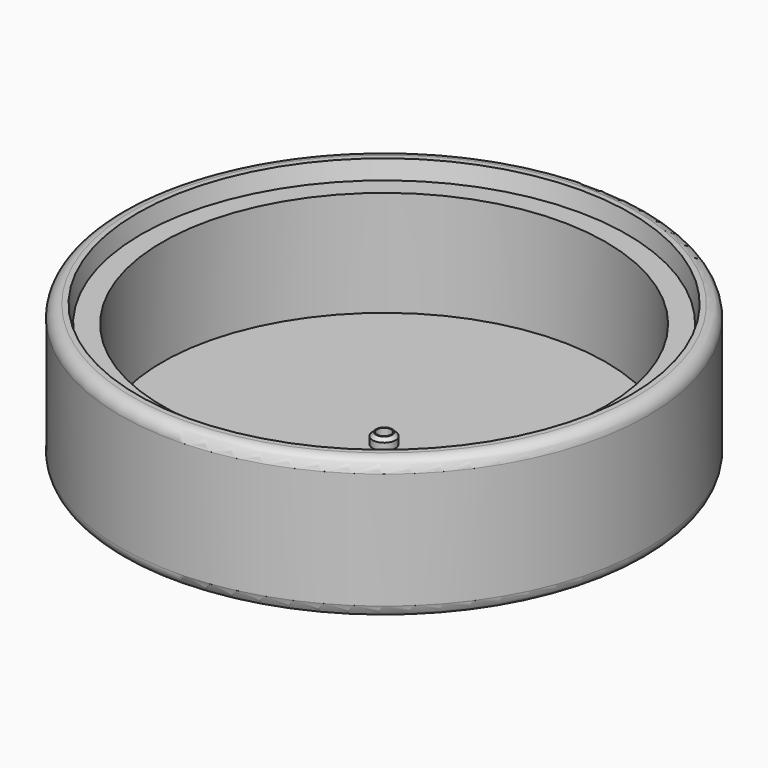
from build123d import *

# Parameters (mm, degrees)
CYLINDER006_R     = 14
CYLINDER006_DEPTH = 1
CYLINDER005_R     = 0.4
CYLINDER005_DEPTH = 1
CYLINDER001_R     = 12.6
CYLINDER001_DEPTH = 8
CYLINDER_R        = 15
CYLINDER_DEPTH    = 8
CYLINDER002_R     = 15
CYLINDER002_DEPTH = 1
FILLET_R          = 0.7
FILLET001_R       = 0.7
FILLET002_R       = 0.8
CYLINDER004_R     = 0.4
CYLINDER004_DEPTH = 0.6
CYLINDER003_R     = 0.65
CYLINDER003_DEPTH = 0.6
CHAMFER_SIZE      = 0.2
CYLINDER007_R     = 14
CYLINDER007_DEPTH = 1


with BuildPart() as cylinder006:
    # Cylinder006 → Cylinder006 (new body)
    with BuildSketch(Plane.XY.offset(7)):
        Circle(CYLINDER006_R)
    extrude(amount=CYLINDER006_DEPTH)


with BuildPart() as cylinder005:
    # Cylinder005 → Cylinder005 (new body)
    with BuildSketch(Plane.XY):
        Circle(CYLINDER005_R)
    extrude(amount=CYLINDER005_DEPTH)


with BuildPart() as cylinder001:
    # Cylinder001 → Cylinder001 (new body)
    with BuildSketch(Plane.XY):
        Circle(CYLINDER001_R)
    extrude(amount=CYLINDER001_DEPTH)


with BuildPart() as cut:
    # Cylinder → Cylinder (new body)
    with BuildSketch(Plane.XY):
        Circle(CYLINDER_R)
    extrude(amount=CYLINDER_DEPTH)

    # Cut: cut Cylinder001
    add(cylinder001.part, mode=Mode.SUBTRACT)


with BuildPart() as fillet002:
    # Cylinder002 → Cylinder002 (new body)
    with BuildSketch(Plane.XY):
        Circle(CYLINDER002_R)
    extrude(amount=CYLINDER002_DEPTH)

    # Fusion: union Cut
    add(cut.part)

    # Cut001: cut Cylinder005
    add(cylinder005.part, mode=Mode.SUBTRACT)

    # Cut003: cut Cylinder006
    add(cylinder006.part, mode=Mode.SUBTRACT)

    # Fillet
    fillet_edges = [fillet002.edges().sort_by_distance(p)[0] for p in [
        (-15, 0, 8),
    ]]
    fillet(fillet_edges, radius=FILLET_R)

    # Fillet001
    fillet001_edges = [fillet002.edges().sort_by_distance(p)[0] for p in [
        (-15, 0, 0),
    ]]
    fillet(fillet001_edges, radius=FILLET001_R)

    # Fillet002
    fillet002_edges = [fillet002.edges().sort_by_distance(p)[0] for p in [
        (-0.4, 0, 0),
    ]]
    fillet(fillet002_edges, radius=FILLET002_R)


with BuildPart() as cylinder004:
    # Cylinder004 → Cylinder004 (new body)
    with BuildSketch(Plane.XY.offset(1)):
        Circle(CYLINDER004_R)
    extrude(amount=CYLINDER004_DEPTH)


with BuildPart() as chamfer_body:
    # Cylinder003 → Cylinder003 (new body)
    with BuildSketch(Plane.XY.offset(1)):
        Circle(CYLINDER003_R)
    extrude(amount=CYLINDER003_DEPTH)

    # Cut002: cut Cylinder004
    add(cylinder004.part, mode=Mode.SUBTRACT)

    # Chamfer
    chamfer_edges = [chamfer_body.edges().sort_by_distance(p)[0] for p in [
        (-0.65, 0, 1.6),
    ]]
    chamfer(chamfer_edges, length=CHAMFER_SIZE)


with BuildPart() as cone:
    # Cone → Cone (revolve)
    with BuildSketch(Plane(origin=(0, 0, 7), x_dir=(1, 0, 0), z_dir=(0, -1, 0))):
        Polygon((0, 0), (13.8, 0), (14, 1), (0, 1), align=None)
    revolve(axis=Axis((0, 0, 7), (0, 0, 1)))


with BuildPart() as fusion001:
    # Cylinder007 → Cylinder007 (new body)
    with BuildSketch(Plane.XY.offset(7)):
        Circle(CYLINDER007_R)
    extrude(amount=CYLINDER007_DEPTH)

    # Cut004: cut Cone
    add(cone.part, mode=Mode.SUBTRACT)

    # Fusion001: union Fillet002, Chamfer body
    add(fillet002.part)
    add(chamfer_body.part)


with BuildPart() as fusion001_1:
    # Fusion001 placement: moved
    add(fusion001.part.moved(Location((0, 0, 3.35))))


solid = fusion001_1.part
